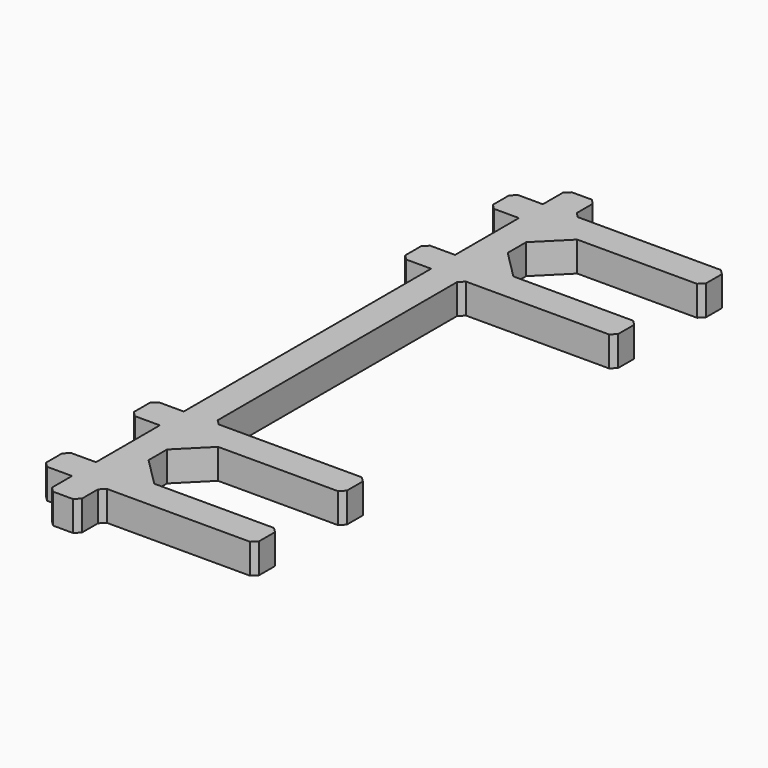
from build123d import *

# Parameters (mm, degrees)
F1_DEPTH = 3
F2_SIZE  = 0.5


with BuildPart() as f1:
    # F0 (on Top) → F1 (new body)
    with BuildSketch(Plane.XY):
        Polygon((6, 23.656854), (8.843146, 26.5), (21.35, 26.5), (21.35, 29.5), (6, 29.5), (6, 32.5), (3, 32.5), (3, 29.5), (0, 29.5), (0, 26.5), (3, 26.5), (3, 18.5), (0, 18.5), (0, 15.5), (3, 15.5), (3, 0), (6, 0), (6, 15.5), (21.35, 15.5), (21.35, 18.5), (8.843146, 18.5), (6, 21.343146), align=None)
    extrude(amount=F1_DEPTH)

    # F2
    f2_edges = [f1.edges().sort_by_distance(p)[0] for p in [
        (0, 29.5, 1.5),
        (0, 26.5, 1.5),
        (0, 18.5, 1.5),
        (0, 15.5, 1.5),
        (21.35, 15.5, 1.5),
        (21.35, 26.5, 1.5),
        (3, 32.5, 1.5),
        (6, 32.5, 1.5),
        (21.35, 29.5, 1.5),
        (21.35, 18.5, 1.5),
        (6, 15.5, 1.5),
        (6, 29.5, 1.5),
    ]]
    chamfer(f2_edges, length=F2_SIZE)

    # F3: F1 across face


with BuildPart() as f1_1:
    add(f1.part)
    add(f1.part.mirror(Plane(origin=(4.5, 0, 1.5), x_dir=(1, 0, 0), z_dir=(0, -1, 0))))


solid = f1_1.part
